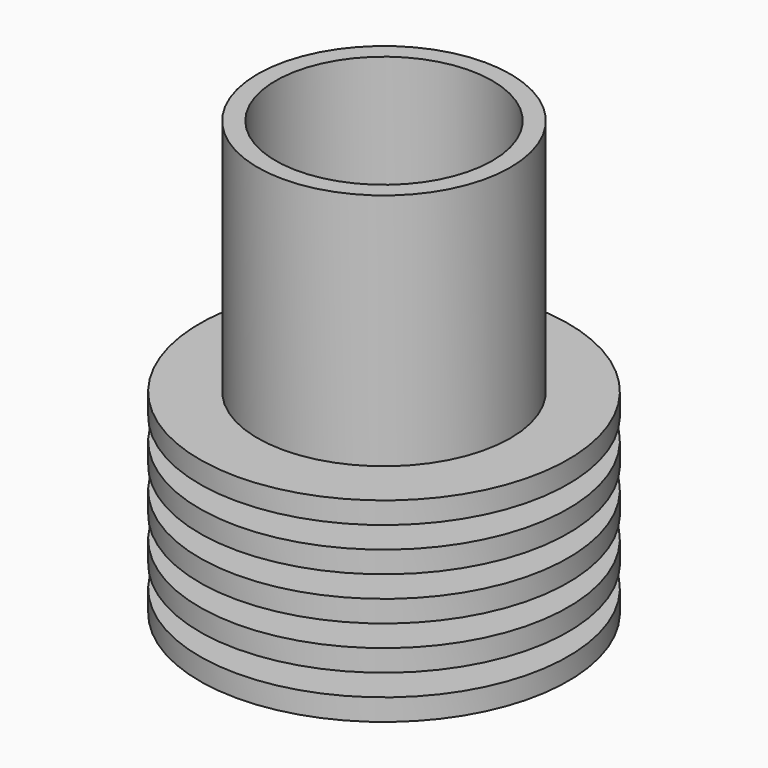
from build123d import *

# Parameters (mm, degrees)
F0_R     = 17.5
F1_DEPTH = 60
F2_R     = 15
F3_DEPTH = 56


with BuildPart() as f1:
    # F0 (on Top) → F1 (new body)
    with BuildSketch(Plane.XY):
        Circle(F0_R)
    extrude(amount=F1_DEPTH)

    # F2 (on face) → F3 (cut)
    with BuildSketch(Plane.XY.offset(60)):
        Circle(F2_R)
    extrude(amount=-F3_DEPTH, mode=Mode.SUBTRACT)

    # F4 (on Right) → F5 (revolve)
    with BuildSketch(Plane.YZ):
        Polygon((-25.5, 3), (-25.5, 0), (-17.5, 0), (-17.5, 27), (-25.5, 27), (-25.5, 24), (-19.5, 24), (-19.5, 21), (-25.5, 21), (-25.5, 18), (-19.5, 18), (-19.5, 15), (-25.5, 15), (-25.5, 12), (-19.5, 12), (-19.5, 9), (-25.5, 9), (-25.5, 6), (-19.5, 6), (-19.5, 3), align=None)
    revolve(axis=Axis((0, 0, 13.5), (0, 0, 1)))


solid = f1.part
